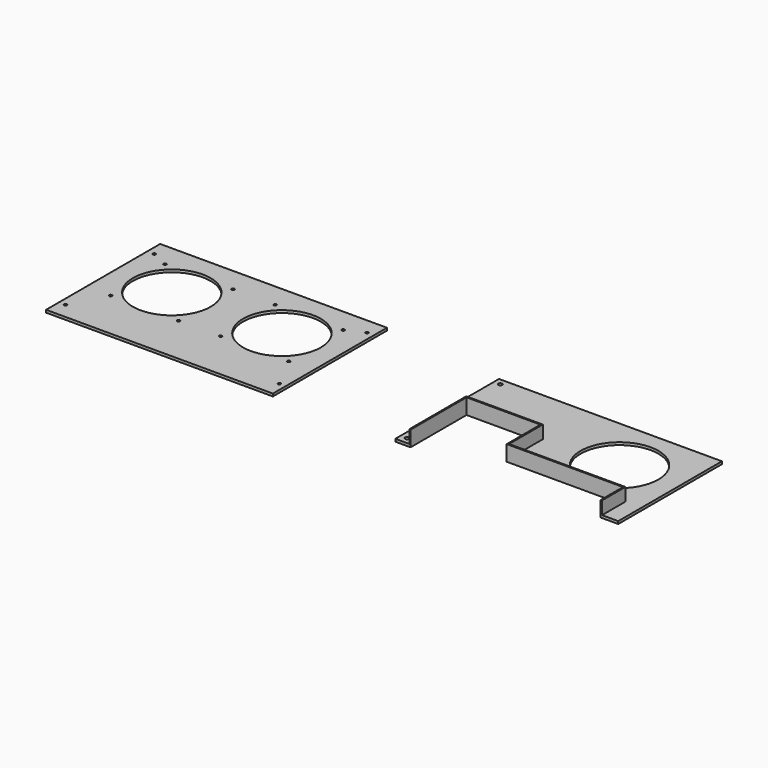
from build123d import *

# Parameters (mm, degrees)
F0_W     = 350
F0_H     = 220
F0_R     = 2.2
F0_R_2   = 60
F1_DEPTH = 4
F2_R     = 3
F2_R_2   = 60
F3_DEPTH = 4
F4_DEPTH = 24


with BuildPart() as f1:
    # F0 (on Top) → F1 (new body)
    with BuildSketch(Plane.XY):
        with Locations((-175, 110)):
            Rectangle(F0_W, F0_H)
        with Locations((-340, 25)):
            Circle(F0_R, mode=Mode.SUBTRACT)
        with Locations((-312.5, 77.5)):
            Circle(F0_R, mode=Mode.SUBTRACT)
        with Locations((-207.5, 77.5)):
            Circle(F0_R, mode=Mode.SUBTRACT)
        with Locations((-10, 25)):
            Circle(F0_R, mode=Mode.SUBTRACT)
        with Locations((-142.5, 77.5)):
            Circle(F0_R, mode=Mode.SUBTRACT)
        with Locations((-37.5, 77.5)):
            Circle(F0_R, mode=Mode.SUBTRACT)
        with Locations((-260, 130)):
            Circle(F0_R_2, mode=Mode.SUBTRACT)
        with Locations((-312.5, 182.5)):
            Circle(F0_R, mode=Mode.SUBTRACT)
        with Locations((-339.2, 195)):
            Circle(F0_R, mode=Mode.SUBTRACT)
        with Locations((-207.5, 182.5)):
            Circle(F0_R, mode=Mode.SUBTRACT)
        with Locations((-90, 130)):
            Circle(F0_R_2, mode=Mode.SUBTRACT)
        with Locations((-142.5, 182.5)):
            Circle(F0_R, mode=Mode.SUBTRACT)
        with Locations((-37.5, 182.5)):
            Circle(F0_R, mode=Mode.SUBTRACT)
        with Locations((-10.8, 195)):
            Circle(F0_R, mode=Mode.SUBTRACT)
    extrude(amount=F1_DEPTH)


with BuildPart() as f3:
    # F2 (on Top) → F3 (new body)
    with BuildSketch(Plane.XY):
        Polygon((507.938528, 0), (532.938528, 0), (532.938528, 200), (188.938528, 200), (188.938528, 0), (210.437715, 0), (210.437715, 110), (328.460153, 110), (328.460153, 45), (507.938528, 45), align=None)
        with Locations((198.938528, 10)):
            Circle(F2_R, mode=Mode.SUBTRACT)
        with Locations((198.938528, 190)):
            Circle(F2_R, mode=Mode.SUBTRACT)
        with Locations((442.938528, 115)):
            Circle(F2_R_2, mode=Mode.SUBTRACT)
    extrude(amount=F3_DEPTH)

    # F2 (on Top) → F4 (join)
    with BuildSketch(Plane.XY):
        Polygon((505.938528, 0), (507.938528, 0), (507.938528, 45), (328.460153, 45), (328.460153, 110), (210.437715, 110), (210.437715, 0), (212.437715, 0), (212.437715, 108), (326.460153, 108), (326.460153, 43), (505.938528, 43), (505.938528, 2.999995), align=None)
    extrude(amount=F4_DEPTH)


solid = Compound([f1.part, f3.part])
